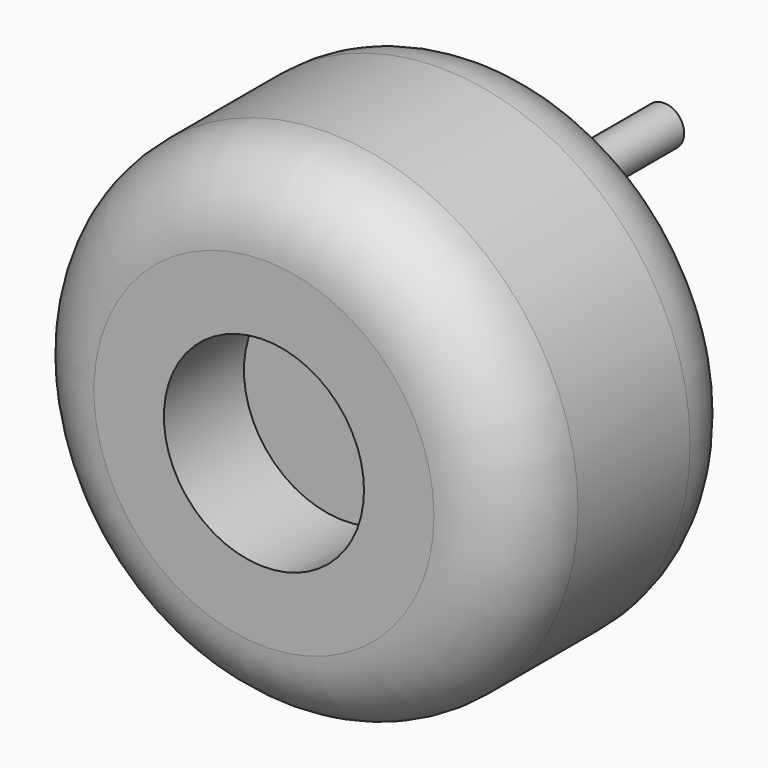
from build123d import *

# Parameters (mm, degrees)
F0_R      = 31.75
F1_DEPTH  = 38.1
F2_R      = 10.16
F1_FACE_R = 21.59
F3_DEPTH  = 12.7
F4_R      = 12.7
F5_DEPTH  = 12.7
F6_R      = 2.54
F7_DEPTH  = 25.4


with BuildPart() as f1:
    # F0 (on Front) → F1 (new body)
    with BuildSketch(Plane.XZ):
        Circle(F0_R)
    extrude(amount=F1_DEPTH)

    # F2
    f2_edges = [f1.edges().sort_by_distance(p)[0] for p in [
        (-31.75, -38.1, 0),
        (-31.75, 0, 0),
    ]]
    fillet(f2_edges, radius=F2_R)

    # F1_face (on face) → F3 (join)
    with BuildSketch(Plane(origin=(0, 0, 0), x_dir=(1, 0, 0), z_dir=(0, 1, 0))):
        Circle(F1_FACE_R)
    extrude(amount=-F3_DEPTH)

    # F4 (on face) → F5 (cut)
    with BuildSketch(Plane.XZ.offset(38.1)):
        Circle(F4_R)
    extrude(amount=-F5_DEPTH, mode=Mode.SUBTRACT)

    # F6 (on face) → F7 (join)
    with BuildSketch(Plane(origin=(0, 0, 0), x_dir=(-1, 0, 0), z_dir=(0, 1, 0))):
        with Locations((0, 10.795)):
            Circle(F6_R)
    extrude(amount=F7_DEPTH)


solid = f1.part
